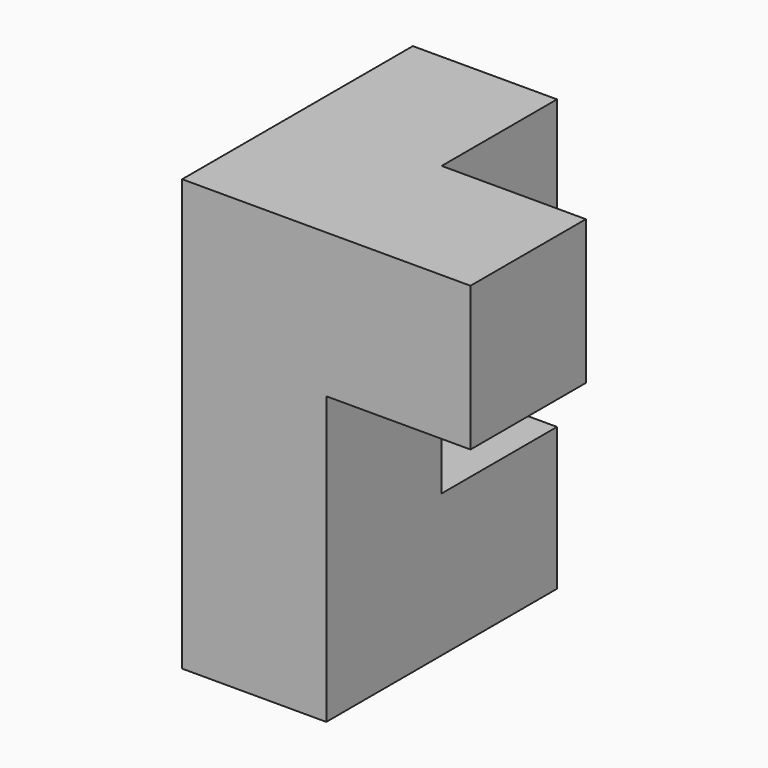
from build123d import *

# Parameters (mm, degrees)
F0_W     = 12.7
F0_H     = 12.7
F1_DEPTH = 25.4
F2_DEPTH = 12.7


with BuildPart() as f1:
    # F0 (on Right) → F1 (new body)
    with BuildSketch(Plane.YZ):
        with Locations((6.35, 31.6040249003)):
            Rectangle(F0_W, F0_H)
    extrude(amount=F1_DEPTH)

    # F0 (on Right) → F2 (join)
    with BuildSketch(Plane.YZ):
        Polygon((0, 25.2540249003), (0, 0), (25.4, 0), (25.4, 12.5540249003), (12.7, 12.5540249003), (12.7, 25.2540249003), align=None)
        with Locations((19.05, 31.6040249003)):
            Rectangle(F0_W, F0_H)
    extrude(amount=F2_DEPTH)


solid = f1.part
